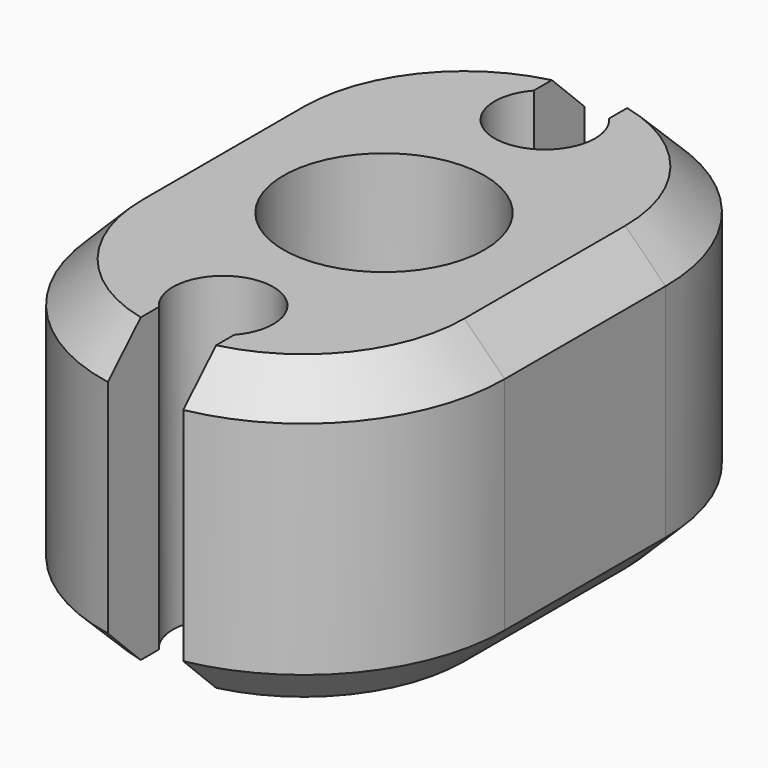
from build123d import *

# Parameters (mm, degrees)
SKETCH_R           = 1
PAD_DEPTH          = 1.5
POCKET_DEPTH       = 18.621499
POLARPATTERN_COUNT = 2
CHAMFER_SIZE       = 0.4


with BuildPart() as part:
    # Sketch (on XY_Plane of Origin) → Pad (new body, symmetric)
    with BuildSketch(Plane.XY):
        with BuildLine():
            ThreePointArc((2, 1), (0, 3), (-2, 1))
            Line((-2, 1), (-2, -1))
            ThreePointArc((-2, -1), (0, -3), (2, -1))
            Line((2, 1), (2, -1))
        make_face()
        Circle(SKETCH_R, mode=Mode.SUBTRACT)
    extrude(amount=PAD_DEPTH, both=True)

    # Sketch001 (on Face7 of Pad) → Pocket (cut, through all)
    with BuildSketch(Plane.XY.offset(1.5)):
        with BuildLine():
            ThreePointArc((-0.375, 2.330719), (0, 1.5), (0.375, 2.330719))
            Line((0.375, 4.330719), (0.375, 2.330719))
            Line((-0.375, 4.330719), (0.375, 4.330719))
            Line((-0.375, 2.330719), (-0.375, 4.330719))
        make_face()
    pocket = extrude(amount=-POCKET_DEPTH, mode=Mode.SUBTRACT)

    # PolarPattern: Pocket ×2 about axis
    polarpattern_axis = Axis((0, 0, 0), (0, 0, 1))
    for i in range(1, POLARPATTERN_COUNT):
        add(pocket.rotate(polarpattern_axis, i * 360 / POLARPATTERN_COUNT), mode=Mode.SUBTRACT)

    # Chamfer
    chamfer_edges = [part.edges().sort_by_distance(p)[0] for p in [
        (-2, 0, -1.5),
        (-2, 0, 1.5),
        (2, 0, -1.5),
        (2, 0, 1.5),
    ]]
    chamfer(chamfer_edges, length=CHAMFER_SIZE)


solid = part.part
